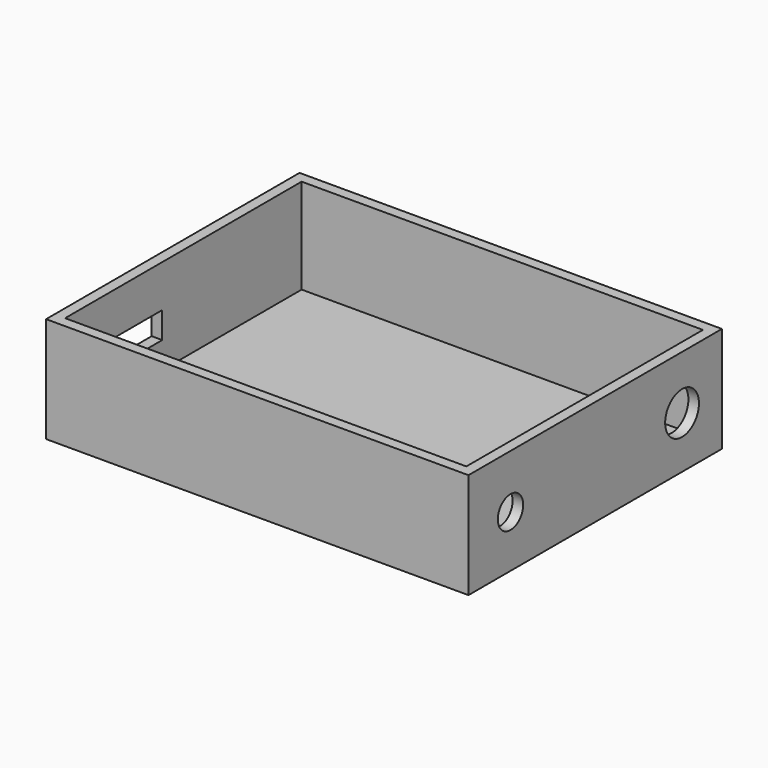
from build123d import *

# Parameters (mm, degrees)
SKETCH_W        = 80
SKETCH_H        = 60
PAD_DEPTH       = 20
SKETCH001_W     = 76
SKETCH001_H     = 56
POCKET_DEPTH    = 18
SKETCH002_W     = 18
SKETCH002_H     = 5
POCKET001_DEPTH = 5
SKETCH003_R     = 4
SKETCH003_R_2   = 3
POCKET002_DEPTH = 5


with BuildPart() as part:
    # Sketch → Pad (new body)
    with BuildSketch(Plane.XY):
        Rectangle(SKETCH_W, SKETCH_H)
    extrude(amount=PAD_DEPTH)

    # Sketch001 (on Face6 of Pad) → Pocket (cut)
    with BuildSketch(Plane.XY.offset(20)):
        Rectangle(SKETCH001_W, SKETCH001_H)
    extrude(amount=-POCKET_DEPTH, mode=Mode.SUBTRACT)

    # Sketch002 (on Face2 of Pocket) → Pocket001 (cut)
    with BuildSketch(Plane(origin=(-40, 0, 0), x_dir=(0, -1, 0), z_dir=(-1, 0, 0))):
        with Locations((14, 9.5)):
            Rectangle(SKETCH002_W, SKETCH002_H)
    extrude(amount=-POCKET001_DEPTH, mode=Mode.SUBTRACT)

    # Sketch003 (on Face3 of Pocket001) → Pocket002 (cut)
    with BuildSketch(Plane.YZ.offset(40)):
        with Locations((20.562784, 9.80915)):
            Circle(SKETCH003_R)
        with Locations((-20.052979, 9.809152)):
            Circle(SKETCH003_R_2)
    extrude(amount=-POCKET002_DEPTH, mode=Mode.SUBTRACT)


solid = part.part
